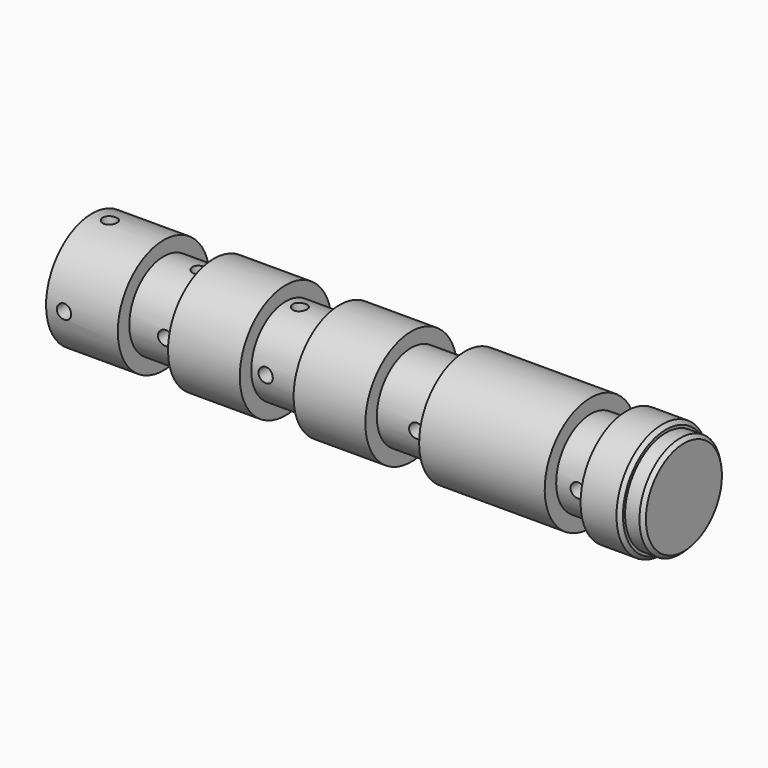
from build123d import *

# Parameters (mm, degrees)
F2_R          = 1
F3_DEPTH      = 25
F3_DEPTH_BACK = 25
F4_R          = 1
F5_DEPTH      = 25
F5_DEPTH_BACK = 25
F6_SIZE       = 0.5
F7_R          = 7.125
F8_DEPTH      = 2.5
F9_SIZE       = 0.5
F10_R         = 4.0014779961
F11_DEPTH     = 2.5


with BuildPart() as f1:
    # F0 (on Front) → F1 (revolve)
    with BuildSketch(Plane.XZ):
        Polygon((40, 8), (34.5, 8), (34.5, 6), (29.5, 6), (29.5, 8), (12, 8), (12, 6), (4.5, 6), (4.5, 8), (-5.5, 8), (-5.5, 6), (-13, 6), (-13, 8), (-23, 8), (-23, 6), (-30, 6), (-30, 8), (-40, 8), (-40, 5.375190638), (-34.1317988932, 5.375190638), (-34.1317988932, 4), (40, 4), align=None)
    revolve(axis=Axis((1.8701907247, 0, 0), (1, 0, 0)))

    # F2 (on Front) → F3 (cut, two sides)
    with BuildSketch(Plane.XZ) as f3_sk:
        with Locations((-37.5, 0)):
            Circle(F2_R)
        with Locations((-25, 0)):
            Circle(F2_R)
        with Locations((-11, 0)):
            Circle(F2_R)
        with Locations((10, 0)):
            Circle(F2_R)
        with Locations((32.5, 0)):
            Circle(F2_R)
    extrude(amount=F3_DEPTH, mode=Mode.SUBTRACT)
    extrude(f3_sk.sketch, amount=-F3_DEPTH_BACK, mode=Mode.SUBTRACT)

    # F4 (on Top) → F5 (cut, two sides)
    with BuildSketch(Plane.XY) as f5_sk:
        with Locations((-37.5, 0)):
            Circle(F4_R)
        with Locations((-25, 0)):
            Circle(F4_R)
        with Locations((-11, 0)):
            Circle(F4_R)
    extrude(amount=F5_DEPTH, mode=Mode.SUBTRACT)
    extrude(f5_sk.sketch, amount=-F5_DEPTH_BACK, mode=Mode.SUBTRACT)

    # F6
    f6_edges = [f1.edges().sort_by_distance(p)[0] for p in [
        (40, 0, -8),
    ]]
    chamfer(f6_edges, length=F6_SIZE)


with BuildPart() as f8:
    # F7 (on face) → F8 (new body)
    with BuildSketch(Plane.YZ.offset(40)):
        Circle(F7_R)
    extrude(amount=F8_DEPTH)

    # F9
    f9_edges = [f8.edges().sort_by_distance(p)[0] for p in [
        (42.5, -7.125, 0),
    ]]
    chamfer(f9_edges, length=F9_SIZE)

    # F10 (on face) → F11 (join)
    with BuildSketch(Plane(origin=(40, 0, 0), x_dir=(0, -1, 0), z_dir=(-1, 0, 0))):
        Circle(F10_R)
    extrude(amount=F11_DEPTH)


solid = Compound([f1.part, f8.part])
